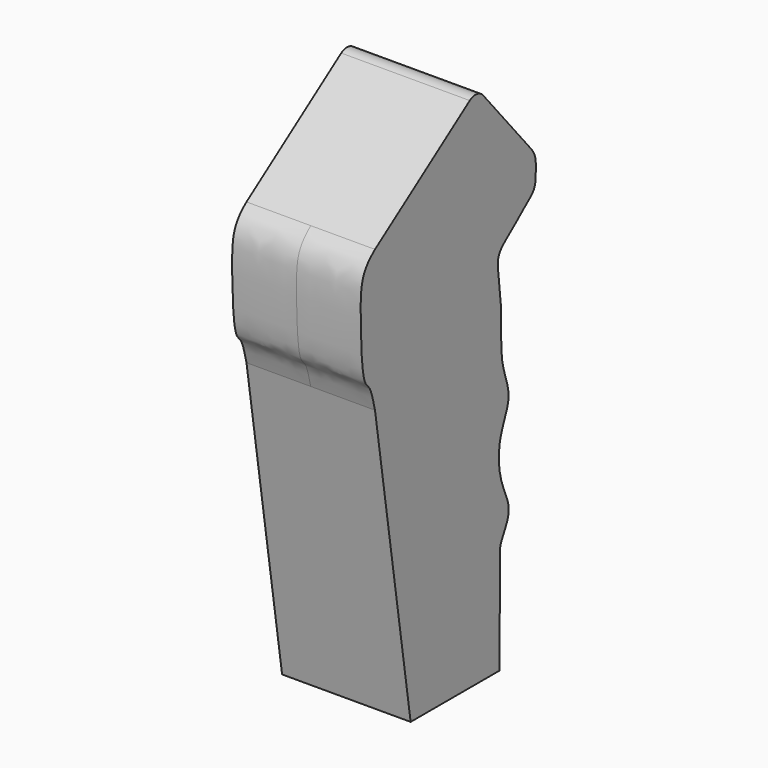
from build123d import *

# Parameters (mm, degrees)
F1_DEPTH = 15
F2_W     = 5.0492878072
F2_H     = 4.9923299812
F2_R     = 2.5
F3_DEPTH = 20


with BuildPart() as f1:
    # F0 (on Right) → F1 (new body, symmetric)
    with BuildSketch(Plane.YZ):
        with BuildLine():
            Line((17.7705745877, 110.4271839324), (3.899824656, 126.9576999954))
            ThreePointArc((3.899824656, 126.9576999954), (2.0498179474, 127.9727955751), (0, 127.4716067479))
            Line((0, 127.4716067479), (-27.6425841884, 108.1261329841))
            add(Edge.make_bspline(
                [(-27.6425841884, 108.1261329841), (-28.9962509323, 107.0866565511), (-31.7992237659, 104.2664438082), (-31.9080639512, 95.9882590359), (-31.4493353821, 81.6711189117), (-28.8420774778, 80.532352499), (-28.1375986662, 76.9869304037), (-27.6425841884, 75.0820216722)],
                knots=[0, 0, 0, 0, 0.1767007478, 0.4090371134, 0.6989083832, 0.8182877145, 1, 1, 1, 1], degree=3))
            Line((-27.6425841884, 75.0820216722), (-17.251973293, 6.8120841834))
            Line((-17.251973293, 6.8120841834), (8.748026707, 6.8120841834))
            add(Edge.make_bspline(
                [(8.748026707, 6.8120841834), (8.6435074998, 10.2266063309), (8.9399848315, 29.2950106099), (8.5672270256, 32.767771996), (12.7972055285, 38.664951647), (8.479561701, 45.3195845989), (8.086055896, 54.6828473515), (12.2336224479, 61.1806188569), (10.2049223998, 66.9712549262), (8.9520615942, 71.515792002), (9.1943721379, 78.7585189282), (9.1561711157, 80.9709361917)],
                knots=[0, 0, 0, 0, 0.1853938333, 0.2688775809, 0.3638921226, 0.4712269984, 0.5909985145, 0.6979790854, 0.7901867819, 0.8799887842, 1, 1, 1, 1], degree=3))
            Line((9.1561711157, 80.9709361917), (8.3037774262, 88.9653396656))
            add(Edge.make_bspline(
                [(8.3037774262, 88.9653396656), (8.0602352527, 91.296678043), (8.5197335757, 93.2102632027), (12.8916759154, 96.3017293717), (16.4697092795, 99.5509955673), (19.38213871, 101.5743928285), (19.2023801103, 106.1926312916), (19.345547908, 108.5502038197), (17.7705745877, 110.4271839324)],
                knots=[0, 0, 0, 0, 0.1654825166, 0.341763801, 0.5209258515, 0.6646539428, 0.8242767249, 1, 1, 1, 1], degree=3))
        make_face()
    extrude(amount=F1_DEPTH, both=True)

    # F2 (on face) → F3 (cut)
    with BuildSketch(Plane(origin=(0, 0, 6.8120841834), x_dir=(1, 0, 0), z_dir=(0, 0, -1))):
        with Locations((0, 4.5381011441)):
            Rectangle(F2_W, F2_H)
        with Locations((-10, 4.5381011441)):
            Circle(F2_R)
        with Locations((10, 4.5381011441)):
            Circle(F2_R)
    extrude(amount=-F3_DEPTH, mode=Mode.SUBTRACT)


solid = f1.part
